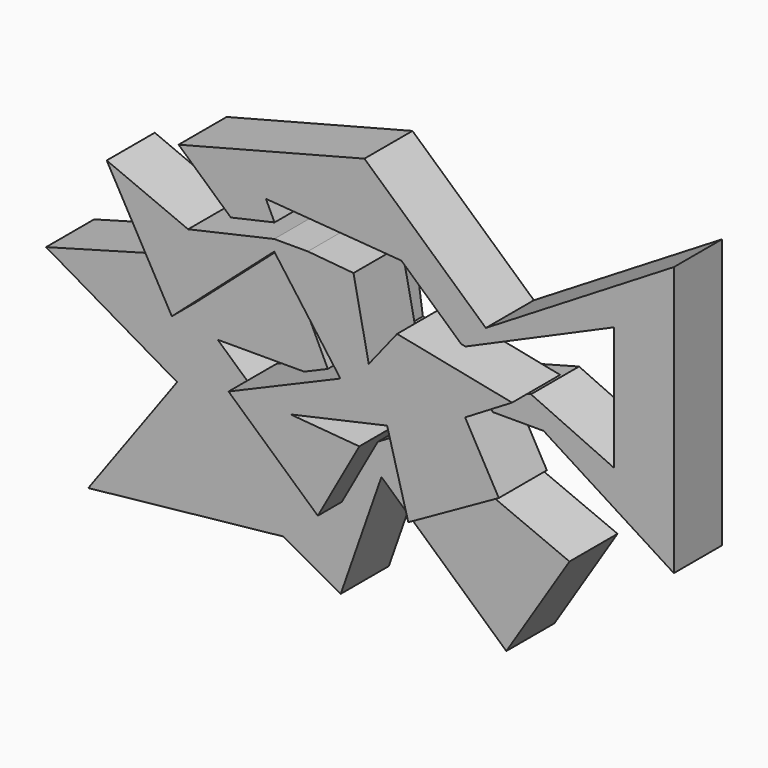
from build123d import *

# Parameters (mm, degrees)
F1_DEPTH = 12.7
F3_DEPTH = 25.4


with BuildPart() as f1:
    # F0 (on Front) → F1 (new body, symmetric)
    with BuildSketch(Plane.XZ):
        Polygon((20.969396, -6.572496), (0, 0), (75.740211, 0), (130.824015, -35.05332), (130.824015, 78.869984), (51.328082, 30.358685), (0, 76.679148), (-78.557007, 56.335703), (-43.721225, 24.898535), (-134.579733, 0), (-79.18296, -32.236539), (-116.740093, -83.877593), (-34.427375, -75.114265), (-10.015238, -88.572234), (7.198447, -39.434988), (59.994847, -87.080518), (86.694382, -45.068558), (20.969396, -17.52666), (-24.099164, -45.068558), (-61.989387, -10.874943), (-13.457976, -10.874943), (-41.625828, 48.198324), (15.648803, 43.81666), (41.779846, 20.234987), (105.472945, 48.198324), (105.472945, -4.068687), (70.419617, 11.893095), (37.557133, 3.129764), (4.381662, 9.076309), (0, 40.060945), (-18.152617, 32.549519), (-14.083927, 9.076309), (0, -10.874943), (-41.625828, -21.59535), (-23.464109, -29.205975), align=None)
    extrude(amount=F1_DEPTH, both=True)

    # F2 (on Front) → F3 (join)
    with BuildSketch(Plane.XZ):
        Polygon((-64.376459, 34.630097), (-98.784566, 49.059302), (-71.258083, 0), (-27.970461, 38.181897), (0, 0), (-47.2834, -20.200888), (-9.545474, -54.165024), (7.991561, -22.642754), (-21.088839, -20.200888), (19.756915, -11.099389), (28.713253, -44.152549), (66.972715, -22.685703), (52.731141, 2.696459), (72.590008, 14.651194), (23.974681, 24.418658), (11.987341, 9.323487), (5.549694, 41.067742), (-13.763242, 42.843644), (-27.970461, 42.843644), align=None)
    extrude(amount=F3_DEPTH)


solid = f1.part
